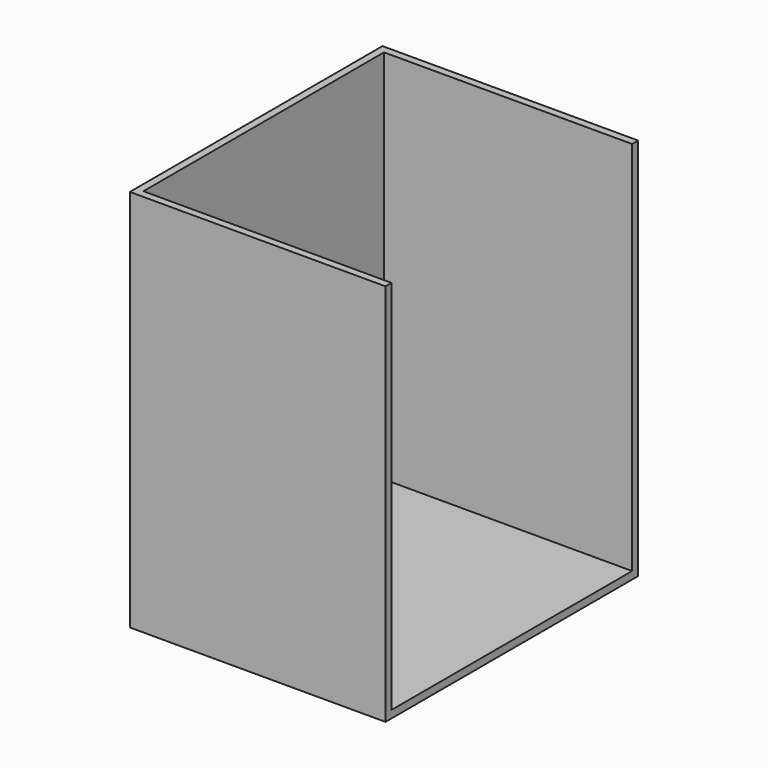
from build123d import *

# Parameters (mm, degrees)
F0_W     = 170
F0_H     = 210
F1_DEPTH = 5
F2_W     = 165
F2_H     = 5
F2_W_2   = 5
F2_H_2   = 200
F3_DEPTH = 250


with BuildPart() as f1:
    # F0 (on Top) → F1 (new body)
    with BuildSketch(Plane.XY):
        with Locations((85, 105)):
            Rectangle(F0_W, F0_H)
    extrude(amount=F1_DEPTH)

    # F2 (on face) → F3 (join)
    with BuildSketch(Plane.XY.offset(5)):
        with Locations((87.5, 207.5)):
            Rectangle(F2_W, F2_H)
        with Locations((2.5, 207.5)):
            Rectangle(F2_W_2, F2_H)
        with Locations((2.5, 105)):
            Rectangle(F2_W_2, F2_H_2)
        with Locations((2.5, 2.5)):
            Rectangle(F2_W_2, F2_H)
        with Locations((87.5, 2.5)):
            Rectangle(F2_W, F2_H)
    extrude(amount=F3_DEPTH)


solid = f1.part
